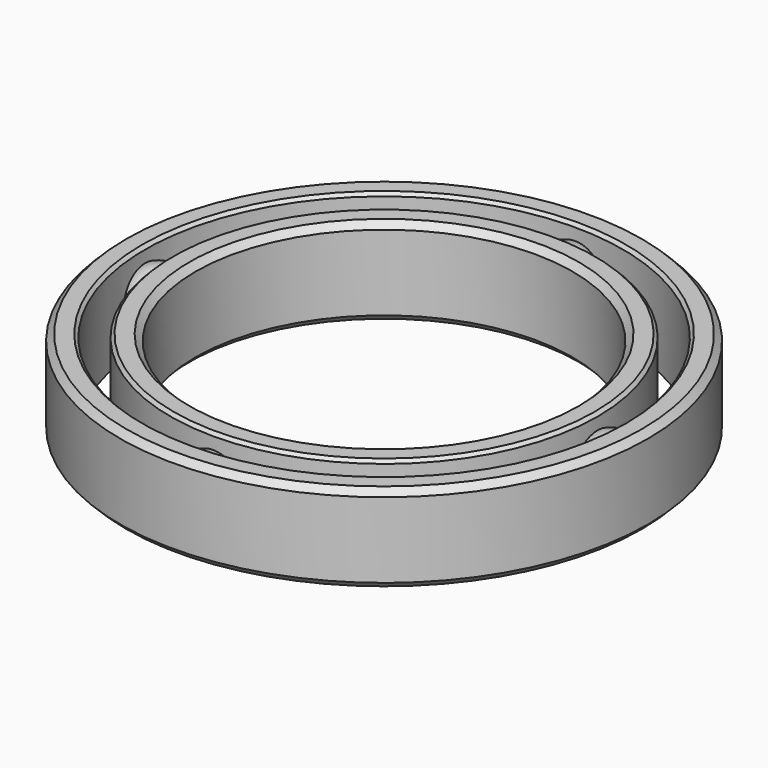
from build123d import *

# Parameters (mm, degrees)
CYLINDER001_R     = 19
CYLINDER001_DEPTH = 10
CYLINDER_R        = 21
CYLINDER_DEPTH    = 7
CHAMFER_SIZE      = 0.5
CHAMFER001_SIZE   = 0.5
CHAMFER005_SIZE   = 0.25
CYLINDER003_R     = 15
CYLINDER003_DEPTH = 10
CYLINDER002_R     = 17
CYLINDER002_DEPTH = 7
CHAMFER002_SIZE   = 0.5
CHAMFER003_SIZE   = 0.5
CHAMFER004_SIZE   = 0.25


with BuildPart() as cylinder19r:
    # Cylinder001 → Cylinder001 (new body)
    with BuildSketch(Plane.XY.offset(-1.5)):
        Circle(CYLINDER001_R)
    extrude(amount=CYLINDER001_DEPTH)


with BuildPart() as chamfer005:
    # Cylinder → Cylinder (new body)
    with BuildSketch(Plane.XY):
        Circle(CYLINDER_R)
    extrude(amount=CYLINDER_DEPTH)

    # Cut: cut Cylinder19R
    add(cylinder19r.part, mode=Mode.SUBTRACT)

    # Chamfer
    chamfer_edges = [chamfer005.edges().sort_by_distance(p)[0] for p in [
        (-21, 0, 7),
    ]]
    chamfer(chamfer_edges, length=CHAMFER_SIZE)

    # Chamfer001
    chamfer001_edges = [chamfer005.edges().sort_by_distance(p)[0] for p in [
        (-21, 0, 0),
    ]]
    chamfer(chamfer001_edges, length=CHAMFER001_SIZE)

    # Chamfer005
    chamfer005_edges = [chamfer005.edges().sort_by_distance(p)[0] for p in [
        (-13.435029, 13.435029, 7),
    ]]
    chamfer(chamfer005_edges, length=CHAMFER005_SIZE)


with BuildPart() as obj1:
    # Sphere → Sphere (revolve)
    with BuildSketch(Plane(origin=(17.999971, 0, 3.5), x_dir=(1, 0, 0), z_dir=(0, -1, 0))):
        with BuildLine():
            ThreePointArc((0, -2.5), (2.5, 0), (0, 2.5))
            Line((0, 2.5), (0, -2.5))
        make_face()
    revolve(axis=Axis((17.999971, 0, 3.5), (0, 0, 1)))


with BuildPart() as balls:
    # Sphere3 → Sphere3 (revolve)
    with BuildSketch(Plane(origin=(-18, 0, 3.5), x_dir=(1, 0, 0), z_dir=(0, -1, 0))):
        with BuildLine():
            ThreePointArc((0, -2.5), (2.5, 0), (0, 2.5))
            Line((0, 2.5), (0, -2.5))
        make_face()
    revolve(axis=Axis((-18, 0, 3.5), (0, 0, 1)))


with BuildPart() as obj2:
    # Sphere004 → Sphere004 (revolve)
    with BuildSketch(Plane(origin=(0, 18, 3.5), x_dir=(1, 0, 0), z_dir=(0, -1, 0))):
        with BuildLine():
            ThreePointArc((0, -2.5), (2.5, 0), (0, 2.5))
            Line((0, 2.5), (0, -2.5))
        make_face()
    revolve(axis=Axis((0, 18, 3.5), (0, 0, 1)))


with BuildPart() as balle:
    # Sphere005 → Sphere005 (revolve)
    with BuildSketch(Plane(origin=(0, -18, 3.5), x_dir=(1, 0, 0), z_dir=(0, -1, 0))):
        with BuildLine():
            ThreePointArc((0, -2.5), (2.5, 0), (0, 2.5))
            Line((0, 2.5), (0, -2.5))
        make_face()
    revolve(axis=Axis((0, -18, 3.5), (0, 0, 1)))


with BuildPart() as cylinder15r:
    # Cylinder003 → Cylinder003 (new body)
    with BuildSketch(Plane.XY):
        Circle(CYLINDER003_R)
    extrude(amount=CYLINDER003_DEPTH)


with BuildPart() as ballrace30x42x7:
    # Cylinder002 → Cylinder002 (new body)
    with BuildSketch(Plane.XY):
        Circle(CYLINDER002_R)
    extrude(amount=CYLINDER002_DEPTH)

    # Cut001: cut Cylinder15R
    add(cylinder15r.part, mode=Mode.SUBTRACT)

    # Chamfer002
    chamfer002_edges = [ballrace30x42x7.edges().sort_by_distance(p)[0] for p in [
        (-10.606602, 10.606602, 7),
    ]]
    chamfer(chamfer002_edges, length=CHAMFER002_SIZE)

    # Chamfer003
    chamfer003_edges = [ballrace30x42x7.edges().sort_by_distance(p)[0] for p in [
        (-15, 0, 0),
    ]]
    chamfer(chamfer003_edges, length=CHAMFER003_SIZE)

    # Chamfer004
    chamfer004_edges = [ballrace30x42x7.edges().sort_by_distance(p)[0] for p in [
        (-17, 0, 7),
    ]]
    chamfer(chamfer004_edges, length=CHAMFER004_SIZE)

    # Fusion: union Chamfer005, obj1, ballS, obj2, ballE
    add(chamfer005.part)
    add(obj1.part)
    add(balls.part)
    add(obj2.part)
    add(balle.part)


with BuildPart() as ballrace30x42x7_1:
    # Fusion placement: moved
    add(ballrace30x42x7.part.moved(Location((0, 0, 2))))


solid = ballrace30x42x7_1.part
